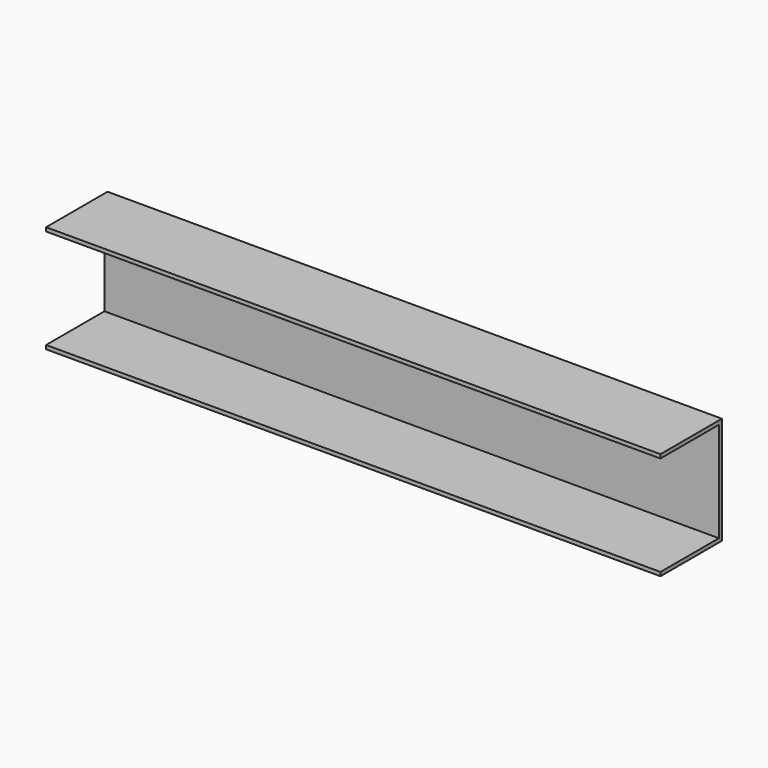
from build123d import *

# Parameters (mm, degrees)
PAD_DEPTH     = 800
SKETCH001_W   = 48.320911
SKETCH001_H   = 733.872097
SKETCH001_W_2 = 18.120416
SKETCH001_H_2 = 694.611473
PAD001_DEPTH  = 15


with BuildPart() as part:
    # Sketch → Pad (new body)
    with BuildSketch(Plane.YZ):
        Polygon((-49.460372, 70.261276), (45.539628, 70.261276), (45.539628, -59.738724), (-49.460372, -59.738724), (-49.460372, -64.738724), (50.539628, -64.738724), (50.539628, 75.261276), (-49.460372, 75.261276), align=None)
    extrude(amount=PAD_DEPTH)

    # Sketch001 → Pad001 (join)
    with BuildSketch(Plane.ZX.offset(50.539628)):
        with Locations((2.740473, 401.065539)):
            Rectangle(SKETCH001_W, SKETCH001_H)
        with Locations((1.733778, 404.588916)):
            Rectangle(SKETCH001_W_2, SKETCH001_H_2, mode=Mode.SUBTRACT)
    extrude(amount=PAD001_DEPTH)


solid = part.part
